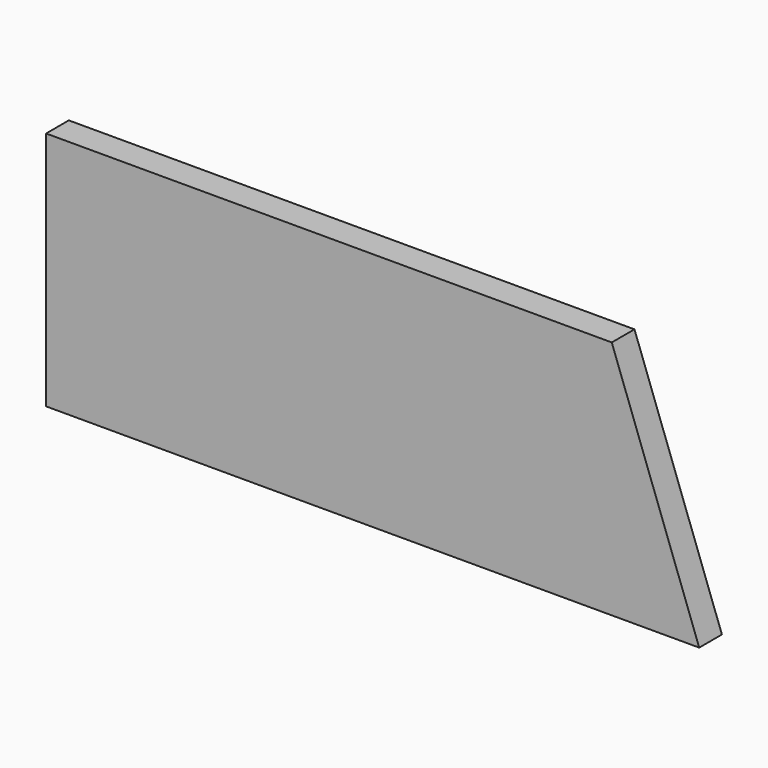
from build123d import *

# Parameters (mm, degrees)
PAD_DEPTH = 13


with BuildPart() as part:
    # Sketch → Pad (new body)
    with BuildSketch(Plane.XZ):
        Polygon((299.036726, 0), (0, 0), (0, 110), (259, 110), align=None)
    extrude(amount=-PAD_DEPTH)


solid = part.part
